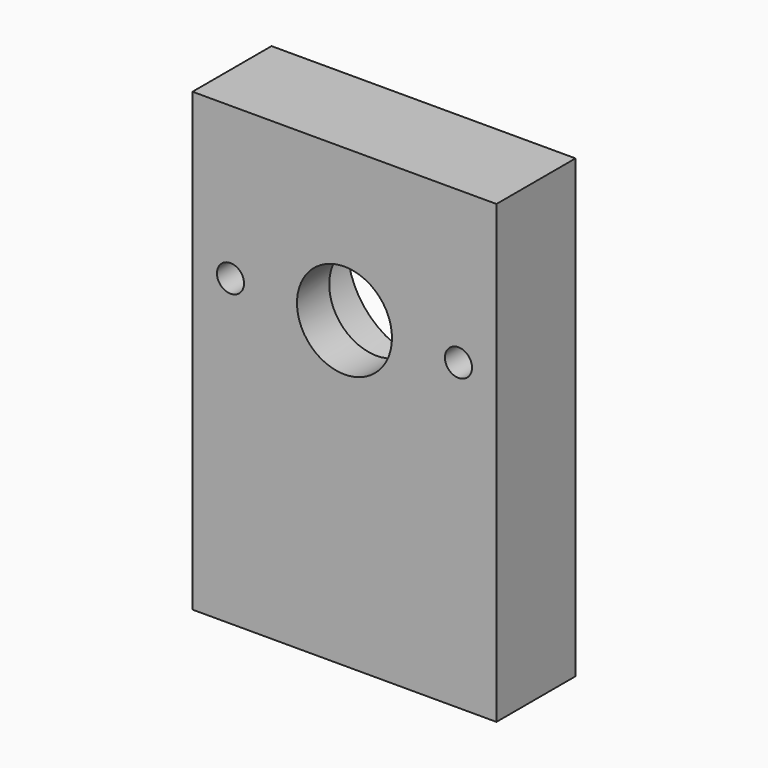
from build123d import *

# Parameters (mm, degrees)
F0_W     = 25.4
F0_H     = 38.1
F0_R     = 6.35
F0_R_2   = 3.96875
F1_DEPTH = 8.255
F2_DEPTH = 4.8895
F3_D     = 2.2606


with BuildPart() as f1:
    # F0 (on Front) → F1 (new body)
    with BuildSketch(Plane.XZ):
        with Locations((12.7, 19.05)):
            Rectangle(F0_W, F0_H)
        with Locations((12.7, 25.4)):
            Circle(F0_R, mode=Mode.SUBTRACT)
        with Locations((12.7, 25.4)):
            Circle(F0_R)
        with Locations((12.7, 25.4)):
            Circle(F0_R_2, mode=Mode.SUBTRACT)
    extrude(amount=F1_DEPTH)

    # F0 (on Front) → F2 (cut)
    with BuildSketch(Plane.XZ):
        with Locations((12.7, 25.4)):
            Circle(F0_R)
        with Locations((12.7, 25.4)):
            Circle(F0_R_2, mode=Mode.SUBTRACT)
    extrude(amount=F2_DEPTH, mode=Mode.SUBTRACT)

    # F3 (through all)
    with Locations(Plane(origin=(0, 0, 0), x_dir=(1, 0, 0), z_dir=(0, 1, 0))):
        with Locations((22.225, -25.4), (3.175, -25.4)):
            Hole(F3_D / 2)


solid = f1.part
